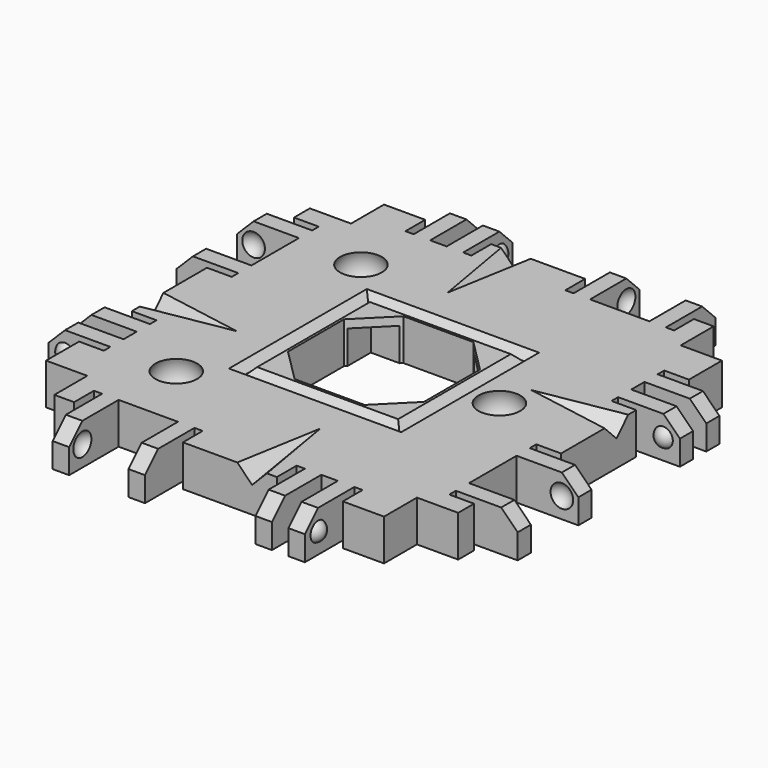
from build123d import *

# Parameters (mm, degrees)
BOX333_W               = 10
BOX333_H               = 15
BOX333_DEPTH           = 10
BOX333_ROLL_ANGLE      = 14.001942
BOX333_PITCH_ANGLE     = -44.136029
BOX333_PLACEMENT_ANGLE = -99.851076
BOX332_W               = 10
BOX332_H               = 15
BOX332_DEPTH           = 10
BOX332_ROLL_ANGLE      = 14.001942
BOX332_PITCH_ANGLE     = -44.136029
BOX332_PLACEMENT_ANGLE = 170.148924
BOX331_W               = 10
BOX331_H               = 15
BOX331_DEPTH           = 10
BOX331_ROLL_ANGLE      = 14.001942
BOX331_PITCH_ANGLE     = -44.136029
BOX331_PLACEMENT_ANGLE = 80.148924
BOX287_W               = 10
BOX287_H               = 15
BOX287_DEPTH           = 10
BOX287_ROLL_ANGLE      = 14.001942
BOX287_PITCH_ANGLE     = -44.136029
BOX287_PLACEMENT_ANGLE = -9.851076
CYLINDER028_R          = 1.7
CYLINDER028_DEPTH      = 10
CYLINDER029_R          = 1.7
CYLINDER029_DEPTH      = 10
CYLINDER027_R          = 1.7
CYLINDER027_DEPTH      = 10
BOX286_W               = 16
BOX286_H               = 16
BOX286_DEPTH           = 15
BOX283_W               = 16.5
BOX283_H               = 16.5
BOX283_DEPTH           = 15
CHAMFER016_SIZE        = 4
BOX285_W               = 17
BOX285_H               = 17
BOX285_DEPTH           = 14
BOX284_W               = 21
BOX284_H               = 21
BOX284_DEPTH           = 10
CHAMFER015_SIZE        = 0.95
BOX272_W               = 40
BOX272_H               = 40
BOX272_DEPTH           = 5
BOX294_W               = 13
BOX294_H               = 40
BOX294_DEPTH           = 10
BOX294_PITCH_ANGLE     = -45
BOX302_W               = 12
BOX302_H               = 44
BOX302_DEPTH           = 10
BOX301_W               = 20
BOX301_H               = 44
BOX301_DEPTH           = 10
BOX297_W               = 4
BOX297_H               = 1
BOX297_DEPTH           = 7
BOX299_W               = 4
BOX299_H               = 1
BOX299_DEPTH           = 7
BOX296_W               = 4
BOX296_H               = 2
BOX296_DEPTH           = 7
BOX298_W               = 4
BOX298_H               = 1
BOX298_DEPTH           = 7
BOX295_W               = 4
BOX295_H               = 1
BOX295_DEPTH           = 7
BOX300_W               = 4
BOX300_H               = 7.2
BOX300_DEPTH           = 7
BOX290_W               = 10
BOX290_H               = 2
BOX290_DEPTH           = 7
BOX291_W               = 10
BOX291_H               = 2
BOX291_DEPTH           = 7
BOX292_W               = 10
BOX292_H               = 2
BOX292_DEPTH           = 7
BOX293_W               = 10
BOX293_H               = 2
BOX293_DEPTH           = 7
BOX289_W               = 5
BOX289_H               = 40
BOX289_DEPTH           = 7
CUT121_PLACEMENT_ANGLE = 90
BOX316_W               = 13
BOX316_H               = 40
BOX316_DEPTH           = 10
BOX316_PITCH_ANGLE     = -45
BOX312_W               = 12
BOX312_H               = 44
BOX312_DEPTH           = 10
BOX305_W               = 20
BOX305_H               = 44
BOX305_DEPTH           = 10
BOX307_W               = 4
BOX307_H               = 1
BOX307_DEPTH           = 7
BOX309_W               = 4
BOX309_H               = 1
BOX309_DEPTH           = 7
BOX311_W               = 4
BOX311_H               = 2
BOX311_DEPTH           = 7
BOX310_W               = 4
BOX310_H               = 1
BOX310_DEPTH           = 7
BOX314_W               = 4
BOX314_H               = 1
BOX314_DEPTH           = 7
BOX306_W               = 4
BOX306_H               = 7.2
BOX306_DEPTH           = 7
BOX315_W               = 10
BOX315_H               = 2
BOX315_DEPTH           = 7
BOX304_W               = 10
BOX304_H               = 2
BOX304_DEPTH           = 7
BOX308_W               = 10
BOX308_H               = 2
BOX308_DEPTH           = 7
BOX313_W               = 10
BOX313_H               = 2
BOX313_DEPTH           = 7
BOX303_W               = 5
BOX303_H               = 40
BOX303_DEPTH           = 7
CUT126_PLACEMENT_ANGLE = 180
BOX318_W               = 13
BOX318_H               = 40
BOX318_DEPTH           = 10
BOX318_PITCH_ANGLE     = -45
BOX328_W               = 12
BOX328_H               = 44
BOX328_DEPTH           = 10
BOX319_W               = 20
BOX319_H               = 44
BOX319_DEPTH           = 10
BOX323_W               = 4
BOX323_H               = 1
BOX323_DEPTH           = 7
BOX329_W               = 4
BOX329_H               = 1
BOX329_DEPTH           = 7
BOX326_W               = 4
BOX326_H               = 2
BOX326_DEPTH           = 7
BOX325_W               = 4
BOX325_H               = 1
BOX325_DEPTH           = 7
BOX322_W               = 4
BOX322_H               = 1
BOX322_DEPTH           = 7
BOX324_W               = 4
BOX324_H               = 7.2
BOX324_DEPTH           = 7
BOX317_W               = 10
BOX317_H               = 2
BOX317_DEPTH           = 7
BOX320_W               = 10
BOX320_H               = 2
BOX320_DEPTH           = 7
BOX327_W               = 10
BOX327_H               = 2
BOX327_DEPTH           = 7
BOX330_W               = 10
BOX330_H               = 2
BOX330_DEPTH           = 7
BOX321_W               = 5
BOX321_H               = 40
BOX321_DEPTH           = 7
CUT131_PLACEMENT_ANGLE = -90
BOX277_W               = 13
BOX277_H               = 40
BOX277_DEPTH           = 10
BOX277_PITCH_ANGLE     = -45
BOX288_W               = 12
BOX288_H               = 44
BOX288_DEPTH           = 10
BOX275_W               = 20
BOX275_H               = 44
BOX275_DEPTH           = 10
BOX274_W               = 4
BOX274_H               = 1
BOX274_DEPTH           = 7
BOX273_W               = 4
BOX273_H               = 1
BOX273_DEPTH           = 7
BOX282_W               = 4
BOX282_H               = 2
BOX282_DEPTH           = 7
BOX270_W               = 4
BOX270_H               = 1
BOX270_DEPTH           = 7
BOX278_W               = 4
BOX278_H               = 1
BOX278_DEPTH           = 7
BOX269_W               = 4
BOX269_H               = 7.2
BOX269_DEPTH           = 7
BOX279_W               = 10
BOX279_H               = 2
BOX279_DEPTH           = 7
BOX281_W               = 10
BOX281_H               = 2
BOX281_DEPTH           = 7
BOX276_W               = 10
BOX276_H               = 2
BOX276_DEPTH           = 7
BOX280_W               = 10
BOX280_H               = 2
BOX280_DEPTH           = 7
BOX271_W               = 5
BOX271_H               = 40
BOX271_DEPTH           = 7


with BuildPart() as cube280:
    # Box333 → Box333 (new body)
    with BuildSketch(Plane.XY):
        with Locations((5, 7.5)):
            Rectangle(BOX333_W, BOX333_H)
    extrude(amount=BOX333_DEPTH)


with BuildPart() as cube280_1:
    # Box333 roll: moved
    add(cube280.part.rotate(Axis((0, 0, 0), (1, 0, 0)), BOX333_ROLL_ANGLE))


with BuildPart() as cube280_2:
    # Box333 pitch: moved
    add(cube280_1.part.rotate(Axis((0, 0, 0), (0, 1, 0)), BOX333_PITCH_ANGLE))


with BuildPart() as cube280_3:
    # Box333 placement: moved
    add(cube280_2.part.moved(Location((-6, 16, 1))).rotate(Axis((-6, 16, 1), (0, 0, 1)), BOX333_PLACEMENT_ANGLE))


with BuildPart() as cube279:
    # Box332 → Box332 (new body)
    with BuildSketch(Plane.XY):
        with Locations((5, 7.5)):
            Rectangle(BOX332_W, BOX332_H)
    extrude(amount=BOX332_DEPTH)


with BuildPart() as cube279_1:
    # Box332 roll: moved
    add(cube279.part.rotate(Axis((0, 0, 0), (1, 0, 0)), BOX332_ROLL_ANGLE))


with BuildPart() as cube279_2:
    # Box332 pitch: moved
    add(cube279_1.part.rotate(Axis((0, 0, 0), (0, 1, 0)), BOX332_PITCH_ANGLE))


with BuildPart() as cube279_3:
    # Box332 placement: moved
    add(cube279_2.part.moved(Location((16, 46, 1))).rotate(Axis((16, 46, 1), (0, 0, 1)), BOX332_PLACEMENT_ANGLE))


with BuildPart() as cube278:
    # Box331 → Box331 (new body)
    with BuildSketch(Plane.XY):
        with Locations((5, 7.5)):
            Rectangle(BOX331_W, BOX331_H)
    extrude(amount=BOX331_DEPTH)


with BuildPart() as cube278_1:
    # Box331 roll: moved
    add(cube278.part.rotate(Axis((0, 0, 0), (1, 0, 0)), BOX331_ROLL_ANGLE))


with BuildPart() as cube278_2:
    # Box331 pitch: moved
    add(cube278_1.part.rotate(Axis((0, 0, 0), (0, 1, 0)), BOX331_PITCH_ANGLE))


with BuildPart() as cube278_3:
    # Box331 placement: moved
    add(cube278_2.part.moved(Location((46, 24, 1))).rotate(Axis((46, 24, 1), (0, 0, 1)), BOX331_PLACEMENT_ANGLE))


with BuildPart() as glue_dents002:
    # Box287 → Box287 (new body)
    with BuildSketch(Plane.XY):
        with Locations((5, 7.5)):
            Rectangle(BOX287_W, BOX287_H)
    extrude(amount=BOX287_DEPTH)


with BuildPart() as glue_dents002_1:
    # Box287 roll: moved
    add(glue_dents002.part.rotate(Axis((0, 0, 0), (1, 0, 0)), BOX287_ROLL_ANGLE))


with BuildPart() as glue_dents002_2:
    # Box287 pitch: moved
    add(glue_dents002_1.part.rotate(Axis((0, 0, 0), (0, 1, 0)), BOX287_PITCH_ANGLE))


with BuildPart() as glue_dents002_3:
    # Box287 placement: moved
    add(glue_dents002_2.part.moved(Location((24, -6, 1))).rotate(Axis((24, -6, 1), (0, 0, 1)), BOX287_PLACEMENT_ANGLE))

    # Fusion126: union Cube280, Cube279, Cube278
    add(cube280_3.part)
    add(cube279_3.part)
    add(cube278_3.part)


with BuildPart() as cylinder028:
    # Cylinder028 → Cylinder028 (new body)
    with BuildSketch(Plane(origin=(34, 20, -5), x_dir=(1, 0, 0), z_dir=(0, 0, 1))):
        Circle(CYLINDER028_R)
    extrude(amount=CYLINDER028_DEPTH)


with BuildPart() as cylinder029:
    # Cylinder029 → Cylinder029 (new body)
    with BuildSketch(Plane(origin=(6, 34, -5), x_dir=(1, 0, 0), z_dir=(0, 0, 1))):
        Circle(CYLINDER029_R)
    extrude(amount=CYLINDER029_DEPTH)


with BuildPart() as screw_holes_to_remove_ball_mags001:
    # Cylinder027 → Cylinder027 (new body)
    with BuildSketch(Plane(origin=(6, 6, -5), x_dir=(1, 0, 0), z_dir=(0, 0, 1))):
        Circle(CYLINDER027_R)
    extrude(amount=CYLINDER027_DEPTH)

    # Fusion104: union Cylinder028, Cylinder029
    add(cylinder028.part)
    add(cylinder029.part)


with BuildPart() as cube243:
    # Box286 → Box286 (new body)
    with BuildSketch(Plane(origin=(12, 12, -13), x_dir=(1, 0, 0), z_dir=(0, 0, 1))):
        with Locations((8, 8)):
            Rectangle(BOX286_W, BOX286_H)
    extrude(amount=BOX286_DEPTH)


with BuildPart() as chamfer016:
    # Box283 → Box283 (new body)
    with BuildSketch(Plane(origin=(11.75, 11.75, -3), x_dir=(1, 0, 0), z_dir=(0, 0, 1))):
        with Locations((8.25, 8.25)):
            Rectangle(BOX283_W, BOX283_H)
    extrude(amount=BOX283_DEPTH)

    # Chamfer016
    chamfer016_edges = [chamfer016.edges().sort_by_distance(p)[0] for p in [
        (11.75, 11.75, 4.5),
        (11.75, 28.25, 4.5),
        (28.25, 11.75, 4.5),
        (28.25, 28.25, 4.5),
    ]]
    chamfer(chamfer016_edges, length=CHAMFER016_SIZE)


with BuildPart() as cube242:
    # Box285 → Box285 (new body)
    with BuildSketch(Plane(origin=(11.5, 11.5, 0), x_dir=(1, 0, 0), z_dir=(0, 0, 1))):
        with Locations((8.5, 8.5)):
            Rectangle(BOX285_W, BOX285_H)
    extrude(amount=BOX285_DEPTH)


with BuildPart() as chamfer015:
    # Box284 → Box284 (new body)
    with BuildSketch(Plane(origin=(9.5, 9.5, 2.1), x_dir=(1, 0, 0), z_dir=(0, 0, 1))):
        with Locations((10.5, 10.5)):
            Rectangle(BOX284_W, BOX284_H)
    extrude(amount=BOX284_DEPTH)

    # Cut107: cut Cube242
    add(cube242.part, mode=Mode.SUBTRACT)

    # Chamfer015
    chamfer015_edges = [chamfer015.edges().sort_by_distance(p)[0] for p in [
        (9.5, 20, 2.1),
        (20, 9.5, 2.1),
        (20, 30.5, 2.1),
        (30.5, 20, 2.1),
        (20, 11.5, 2.1),
        (28.5, 20, 2.1),
        (20, 28.5, 2.1),
        (11.5, 20, 2.1),
    ]]
    chamfer(chamfer015_edges, length=CHAMFER015_SIZE)


with BuildPart() as sphere086:
    # Sphere086 → Sphere086 (revolve)
    with BuildSketch(Plane(origin=(34, 20, 1.7), x_dir=(1, 0, 0), z_dir=(0, -1, 0))):
        with BuildLine():
            ThreePointArc((0, -2.85), (2.85, 0), (0, 2.85))
            Line((0, 2.85), (0, -2.85))
        make_face()
    revolve(axis=Axis((34, 20, 1.7), (0, 0, 1)))


with BuildPart() as sphere084:
    # Sphere084 → Sphere084 (revolve)
    with BuildSketch(Plane(origin=(6, 34, 1.7), x_dir=(1, 0, 0), z_dir=(0, -1, 0))):
        with BuildLine():
            ThreePointArc((0, -2.85), (2.85, 0), (0, 2.85))
            Line((0, 2.85), (0, -2.85))
        make_face()
    revolve(axis=Axis((6, 34, 1.7), (0, 0, 1)))


with BuildPart() as fusion102:
    # Sphere089 → Sphere089 (revolve)
    with BuildSketch(Plane(origin=(6, 6, 1.7), x_dir=(1, 0, 0), z_dir=(0, -1, 0))):
        with BuildLine():
            ThreePointArc((0, -2.85), (2.85, 0), (0, 2.85))
            Line((0, 2.85), (0, -2.85))
        make_face()
    revolve(axis=Axis((6, 6, 1.7), (0, 0, 1)))

    # Fusion102: union Sphere086, Sphere084
    add(sphere086.part)
    add(sphere084.part)


with BuildPart() as cut132:
    # Box272 → Box272 (new body)
    with BuildSketch(Plane.XY.offset(-2)):
        with Locations((20, 20)):
            Rectangle(BOX272_W, BOX272_H)
    extrude(amount=BOX272_DEPTH)

    # Cut108: cut Fusion102
    add(fusion102.part, mode=Mode.SUBTRACT)

    # Cut109: cut Chamfer015
    add(chamfer015.part, mode=Mode.SUBTRACT)

    # Cut110: cut Chamfer016
    add(chamfer016.part, mode=Mode.SUBTRACT)

    # Cut111: cut Cube243
    add(cube243.part, mode=Mode.SUBTRACT)

    # Cut132: cut Screw Holes to remove ball mags001
    add(screw_holes_to_remove_ball_mags001.part, mode=Mode.SUBTRACT)


with BuildPart() as chamfer_cube010:
    # Box294 → Box294 (new body)
    with BuildSketch(Plane.XY):
        with Locations((6.5, 20)):
            Rectangle(BOX294_W, BOX294_H)
    extrude(amount=BOX294_DEPTH)


with BuildPart() as chamfer_cube010_1:
    # Box294 pitch: moved
    add(chamfer_cube010.part.rotate(Axis((0, 0, 0), (0, 1, 0)), BOX294_PITCH_ANGLE))


with BuildPart() as chamfer_cube010_2:
    # Box294 placement: moved
    add(chamfer_cube010_1.part.moved(Location((-11.69, 0, -1.19))))


with BuildPart() as re_level_edge_clip_block021:
    # Box302 → Box302 (new body)
    with BuildSketch(Plane(origin=(-21.5, -2, -7), x_dir=(1, 0, 0), z_dir=(0, 0, 1))):
        with Locations((6, 22)):
            Rectangle(BOX302_W, BOX302_H)
    extrude(amount=BOX302_DEPTH)


with BuildPart() as re_level_edge_clip_block020:
    # Box301 → Box301 (new body)
    with BuildSketch(Plane(origin=(-19, -2, 3), x_dir=(1, 0, 0), z_dir=(0, 0, 1))):
        with Locations((10, 22)):
            Rectangle(BOX301_W, BOX301_H)
    extrude(amount=BOX301_DEPTH)


with BuildPart() as cube252:
    # Box297 → Box297 (new body)
    with BuildSketch(Plane(origin=(-6, 12, -2), x_dir=(1, 0, 0), z_dir=(0, 0, 1))):
        with Locations((2, 0.5)):
            Rectangle(BOX297_W, BOX297_H)
    extrude(amount=BOX297_DEPTH)


with BuildPart() as cube254:
    # Box299 → Box299 (new body)
    with BuildSketch(Plane(origin=(-6, 36.6, -2), x_dir=(1, 0, 0), z_dir=(0, 0, 1))):
        with Locations((2, 0.5)):
            Rectangle(BOX299_W, BOX299_H)
    extrude(amount=BOX299_DEPTH)


with BuildPart() as cube251:
    # Box296 → Box296 (new body)
    with BuildSketch(Plane(origin=(-6, 8, -2), x_dir=(1, 0, 0), z_dir=(0, 0, 1))):
        with Locations((2, 1)):
            Rectangle(BOX296_W, BOX296_H)
    extrude(amount=BOX296_DEPTH)


with BuildPart() as cube253:
    # Box298 → Box298 (new body)
    with BuildSketch(Plane(origin=(-6, 24.4, -2), x_dir=(1, 0, 0), z_dir=(0, 0, 1))):
        with Locations((2, 0.5)):
            Rectangle(BOX298_W, BOX298_H)
    extrude(amount=BOX298_DEPTH)


with BuildPart() as cube250:
    # Box295 → Box295 (new body)
    with BuildSketch(Plane(origin=(-6, 5, -2), x_dir=(1, 0, 0), z_dir=(0, 0, 1))):
        with Locations((2, 0.5)):
            Rectangle(BOX295_W, BOX295_H)
    extrude(amount=BOX295_DEPTH)


with BuildPart() as extra_holes_for_clips010:
    # Box300 → Box300 (new body)
    with BuildSketch(Plane(origin=(-6, 27.4, -2), x_dir=(1, 0, 0), z_dir=(0, 0, 1))):
        with Locations((2, 3.6)):
            Rectangle(BOX300_W, BOX300_H)
    extrude(amount=BOX300_DEPTH)

    # Fusion109: union Cube252, Cube254, Cube251, Cube253, Cube250
    add(cube252.part)
    add(cube254.part)
    add(cube251.part)
    add(cube253.part)
    add(cube250.part)


with BuildPart() as sphere093:
    # Sphere093 → Sphere093 (revolve)
    with BuildSketch(Plane(origin=(-7.5, 34, 0.5), x_dir=(1, 0, 0), z_dir=(0, -1, 0))):
        with BuildLine():
            ThreePointArc((0, -1.5), (1.5, 0), (0, 1.5))
            Line((0, 1.5), (0, -1.5))
        make_face()
    revolve(axis=Axis((-7.5, 34, 0.5), (0, 0, 1)))


with BuildPart() as holes010:
    # Sphere092 → Sphere092 (revolve)
    with BuildSketch(Plane(origin=(-7.5, 28, 0.5), x_dir=(1, 0, 0), z_dir=(0, -1, 0))):
        with BuildLine():
            ThreePointArc((0, -1.5), (1.5, 0), (0, 1.5))
            Line((0, 1.5), (0, -1.5))
        make_face()
    revolve(axis=Axis((-7.5, 28, 0.5), (0, 0, 1)))

    # Fusion111: union Sphere093
    add(sphere093.part)


with BuildPart() as cube246:
    # Box290 → Box290 (new body)
    with BuildSketch(Plane(origin=(-15, 6, -2), x_dir=(1, 0, 0), z_dir=(0, 0, 1))):
        with Locations((5, 1)):
            Rectangle(BOX290_W, BOX290_H)
    extrude(amount=BOX290_DEPTH)


with BuildPart() as cube247:
    # Box291 → Box291 (new body)
    with BuildSketch(Plane(origin=(-15, 10, -2), x_dir=(1, 0, 0), z_dir=(0, 0, 1))):
        with Locations((5, 1)):
            Rectangle(BOX291_W, BOX291_H)
    extrude(amount=BOX291_DEPTH)


with BuildPart() as cube248:
    # Box292 → Box292 (new body)
    with BuildSketch(Plane(origin=(-15, 25.4, -2), x_dir=(1, 0, 0), z_dir=(0, 0, 1))):
        with Locations((5, 1)):
            Rectangle(BOX292_W, BOX292_H)
    extrude(amount=BOX292_DEPTH)


with BuildPart() as cube249:
    # Box293 → Box293 (new body)
    with BuildSketch(Plane(origin=(-15, 34.6, -2), x_dir=(1, 0, 0), z_dir=(0, 0, 1))):
        with Locations((5, 1)):
            Rectangle(BOX293_W, BOX293_H)
    extrude(amount=BOX293_DEPTH)


with BuildPart() as fusion112:
    # Box289 → Box289 (new body)
    with BuildSketch(Plane(origin=(-5, 0, -2), x_dir=(1, 0, 0), z_dir=(0, 0, 1))):
        with Locations((2.5, 20)):
            Rectangle(BOX289_W, BOX289_H)
    extrude(amount=BOX289_DEPTH)

    # Fusion112: union Cube246, Cube247, Cube248, Cube249
    add(cube246.part)
    add(cube247.part)
    add(cube248.part)
    add(cube249.part)


with BuildPart() as sphere091:
    # Sphere091 → Sphere091 (revolve)
    with BuildSketch(Plane(origin=(-7.5, 11.5, 0.5), x_dir=(1, 0, 0), z_dir=(0, -1, 0))):
        with BuildLine():
            ThreePointArc((0, -1.25), (1.25, 0), (0, 1.25))
            Line((0, 1.25), (0, -1.25))
        make_face()
    revolve(axis=Axis((-7.5, 11.5, 0.5), (0, 0, 1)))


with BuildPart() as edge_clips007:
    # Sphere090 → Sphere090 (revolve)
    with BuildSketch(Plane(origin=(-7.5, 6.5, 0.5), x_dir=(1, 0, 0), z_dir=(0, -1, 0))):
        with BuildLine():
            ThreePointArc((0, -1.25), (1.25, 0), (0, 1.25))
            Line((0, 1.25), (0, -1.25))
        make_face()
    revolve(axis=Axis((-7.5, 6.5, 0.5), (0, 0, 1)))

    # Fusion110: union Sphere091
    add(sphere091.part)

    # Fusion113: union Fusion112
    add(fusion112.part)

    # Cut117: cut Holes010
    add(holes010.part, mode=Mode.SUBTRACT)

    # Cut118: cut Extra Holes for Clips010
    add(extra_holes_for_clips010.part, mode=Mode.SUBTRACT)

    # Cut119: cut Re-level Edge Clip Block020
    add(re_level_edge_clip_block020.part, mode=Mode.SUBTRACT)

    # Cut120: cut Re-level Edge Clip Block021
    add(re_level_edge_clip_block021.part, mode=Mode.SUBTRACT)

    # Cut121: cut Chamfer Cube010
    add(chamfer_cube010_2.part, mode=Mode.SUBTRACT)


with BuildPart() as edge_clips007_1:
    # Cut121 placement: moved
    add(edge_clips007.part.moved(Location((40, 0, 0))).rotate(Axis((40, 0, 0), (0, 0, 1)), CUT121_PLACEMENT_ANGLE))


with BuildPart() as chamfer_cube011:
    # Box316 → Box316 (new body)
    with BuildSketch(Plane.XY):
        with Locations((6.5, 20)):
            Rectangle(BOX316_W, BOX316_H)
    extrude(amount=BOX316_DEPTH)


with BuildPart() as chamfer_cube011_1:
    # Box316 pitch: moved
    add(chamfer_cube011.part.rotate(Axis((0, 0, 0), (0, 1, 0)), BOX316_PITCH_ANGLE))


with BuildPart() as chamfer_cube011_2:
    # Box316 placement: moved
    add(chamfer_cube011_1.part.moved(Location((-11.69, 0, -1.19))))


with BuildPart() as re_level_edge_clip_block023:
    # Box312 → Box312 (new body)
    with BuildSketch(Plane(origin=(-21.5, -2, -7), x_dir=(1, 0, 0), z_dir=(0, 0, 1))):
        with Locations((6, 22)):
            Rectangle(BOX312_W, BOX312_H)
    extrude(amount=BOX312_DEPTH)


with BuildPart() as re_level_edge_clip_block022:
    # Box305 → Box305 (new body)
    with BuildSketch(Plane(origin=(-19, -2, 3), x_dir=(1, 0, 0), z_dir=(0, 0, 1))):
        with Locations((10, 22)):
            Rectangle(BOX305_W, BOX305_H)
    extrude(amount=BOX305_DEPTH)


with BuildPart() as cube259:
    # Box307 → Box307 (new body)
    with BuildSketch(Plane(origin=(-6, 12, -2), x_dir=(1, 0, 0), z_dir=(0, 0, 1))):
        with Locations((2, 0.5)):
            Rectangle(BOX307_W, BOX307_H)
    extrude(amount=BOX307_DEPTH)


with BuildPart() as cube261:
    # Box309 → Box309 (new body)
    with BuildSketch(Plane(origin=(-6, 36.6, -2), x_dir=(1, 0, 0), z_dir=(0, 0, 1))):
        with Locations((2, 0.5)):
            Rectangle(BOX309_W, BOX309_H)
    extrude(amount=BOX309_DEPTH)


with BuildPart() as cube263:
    # Box311 → Box311 (new body)
    with BuildSketch(Plane(origin=(-6, 8, -2), x_dir=(1, 0, 0), z_dir=(0, 0, 1))):
        with Locations((2, 1)):
            Rectangle(BOX311_W, BOX311_H)
    extrude(amount=BOX311_DEPTH)


with BuildPart() as cube262:
    # Box310 → Box310 (new body)
    with BuildSketch(Plane(origin=(-6, 24.4, -2), x_dir=(1, 0, 0), z_dir=(0, 0, 1))):
        with Locations((2, 0.5)):
            Rectangle(BOX310_W, BOX310_H)
    extrude(amount=BOX310_DEPTH)


with BuildPart() as cube265:
    # Box314 → Box314 (new body)
    with BuildSketch(Plane(origin=(-6, 5, -2), x_dir=(1, 0, 0), z_dir=(0, 0, 1))):
        with Locations((2, 0.5)):
            Rectangle(BOX314_W, BOX314_H)
    extrude(amount=BOX314_DEPTH)


with BuildPart() as extra_holes_for_clips011:
    # Box306 → Box306 (new body)
    with BuildSketch(Plane(origin=(-6, 27.4, -2), x_dir=(1, 0, 0), z_dir=(0, 0, 1))):
        with Locations((2, 3.6)):
            Rectangle(BOX306_W, BOX306_H)
    extrude(amount=BOX306_DEPTH)

    # Fusion115: union Cube259, Cube261, Cube263, Cube262, Cube265
    add(cube259.part)
    add(cube261.part)
    add(cube263.part)
    add(cube262.part)
    add(cube265.part)


with BuildPart() as sphere095:
    # Sphere095 → Sphere095 (revolve)
    with BuildSketch(Plane(origin=(-7.5, 34, 0.5), x_dir=(1, 0, 0), z_dir=(0, -1, 0))):
        with BuildLine():
            ThreePointArc((0, -1.5), (1.5, 0), (0, 1.5))
            Line((0, 1.5), (0, -1.5))
        make_face()
    revolve(axis=Axis((-7.5, 34, 0.5), (0, 0, 1)))


with BuildPart() as holes011:
    # Sphere097 → Sphere097 (revolve)
    with BuildSketch(Plane(origin=(-7.5, 28, 0.5), x_dir=(1, 0, 0), z_dir=(0, -1, 0))):
        with BuildLine():
            ThreePointArc((0, -1.5), (1.5, 0), (0, 1.5))
            Line((0, 1.5), (0, -1.5))
        make_face()
    revolve(axis=Axis((-7.5, 28, 0.5), (0, 0, 1)))

    # Fusion114: union Sphere095
    add(sphere095.part)


with BuildPart() as cube266:
    # Box315 → Box315 (new body)
    with BuildSketch(Plane(origin=(-15, 6, -2), x_dir=(1, 0, 0), z_dir=(0, 0, 1))):
        with Locations((5, 1)):
            Rectangle(BOX315_W, BOX315_H)
    extrude(amount=BOX315_DEPTH)


with BuildPart() as cube257:
    # Box304 → Box304 (new body)
    with BuildSketch(Plane(origin=(-15, 10, -2), x_dir=(1, 0, 0), z_dir=(0, 0, 1))):
        with Locations((5, 1)):
            Rectangle(BOX304_W, BOX304_H)
    extrude(amount=BOX304_DEPTH)


with BuildPart() as cube260:
    # Box308 → Box308 (new body)
    with BuildSketch(Plane(origin=(-15, 25.4, -2), x_dir=(1, 0, 0), z_dir=(0, 0, 1))):
        with Locations((5, 1)):
            Rectangle(BOX308_W, BOX308_H)
    extrude(amount=BOX308_DEPTH)


with BuildPart() as cube264:
    # Box313 → Box313 (new body)
    with BuildSketch(Plane(origin=(-15, 34.6, -2), x_dir=(1, 0, 0), z_dir=(0, 0, 1))):
        with Locations((5, 1)):
            Rectangle(BOX313_W, BOX313_H)
    extrude(amount=BOX313_DEPTH)


with BuildPart() as fusion117:
    # Box303 → Box303 (new body)
    with BuildSketch(Plane(origin=(-5, 0, -2), x_dir=(1, 0, 0), z_dir=(0, 0, 1))):
        with Locations((2.5, 20)):
            Rectangle(BOX303_W, BOX303_H)
    extrude(amount=BOX303_DEPTH)

    # Fusion117: union Cube266, Cube257, Cube260, Cube264
    add(cube266.part)
    add(cube257.part)
    add(cube260.part)
    add(cube264.part)


with BuildPart() as sphere096:
    # Sphere096 → Sphere096 (revolve)
    with BuildSketch(Plane(origin=(-7.5, 11.5, 0.5), x_dir=(1, 0, 0), z_dir=(0, -1, 0))):
        with BuildLine():
            ThreePointArc((0, -1.25), (1.25, 0), (0, 1.25))
            Line((0, 1.25), (0, -1.25))
        make_face()
    revolve(axis=Axis((-7.5, 11.5, 0.5), (0, 0, 1)))


with BuildPart() as edge_clips008:
    # Sphere094 → Sphere094 (revolve)
    with BuildSketch(Plane(origin=(-7.5, 6.5, 0.5), x_dir=(1, 0, 0), z_dir=(0, -1, 0))):
        with BuildLine():
            ThreePointArc((0, -1.25), (1.25, 0), (0, 1.25))
            Line((0, 1.25), (0, -1.25))
        make_face()
    revolve(axis=Axis((-7.5, 6.5, 0.5), (0, 0, 1)))

    # Fusion118: union Sphere096
    add(sphere096.part)

    # Fusion116: union Fusion117
    add(fusion117.part)

    # Cut125: cut Holes011
    add(holes011.part, mode=Mode.SUBTRACT)

    # Cut122: cut Extra Holes for Clips011
    add(extra_holes_for_clips011.part, mode=Mode.SUBTRACT)

    # Cut123: cut Re-level Edge Clip Block022
    add(re_level_edge_clip_block022.part, mode=Mode.SUBTRACT)

    # Cut124: cut Re-level Edge Clip Block023
    add(re_level_edge_clip_block023.part, mode=Mode.SUBTRACT)

    # Cut126: cut Chamfer Cube011
    add(chamfer_cube011_2.part, mode=Mode.SUBTRACT)


with BuildPart() as edge_clips008_1:
    # Cut126 placement: moved
    add(edge_clips008.part.moved(Location((40, 40, 0))).rotate(Axis((40, 40, 0), (0, 0, 1)), CUT126_PLACEMENT_ANGLE))


with BuildPart() as chamfer_cube012:
    # Box318 → Box318 (new body)
    with BuildSketch(Plane.XY):
        with Locations((6.5, 20)):
            Rectangle(BOX318_W, BOX318_H)
    extrude(amount=BOX318_DEPTH)


with BuildPart() as chamfer_cube012_1:
    # Box318 pitch: moved
    add(chamfer_cube012.part.rotate(Axis((0, 0, 0), (0, 1, 0)), BOX318_PITCH_ANGLE))


with BuildPart() as chamfer_cube012_2:
    # Box318 placement: moved
    add(chamfer_cube012_1.part.moved(Location((-11.69, 0, -1.19))))


with BuildPart() as re_level_edge_clip_block025:
    # Box328 → Box328 (new body)
    with BuildSketch(Plane(origin=(-21.5, -2, -7), x_dir=(1, 0, 0), z_dir=(0, 0, 1))):
        with Locations((6, 22)):
            Rectangle(BOX328_W, BOX328_H)
    extrude(amount=BOX328_DEPTH)


with BuildPart() as re_level_edge_clip_block024:
    # Box319 → Box319 (new body)
    with BuildSketch(Plane(origin=(-19, -2, 3), x_dir=(1, 0, 0), z_dir=(0, 0, 1))):
        with Locations((10, 22)):
            Rectangle(BOX319_W, BOX319_H)
    extrude(amount=BOX319_DEPTH)


with BuildPart() as cube271:
    # Box323 → Box323 (new body)
    with BuildSketch(Plane(origin=(-6, 12, -2), x_dir=(1, 0, 0), z_dir=(0, 0, 1))):
        with Locations((2, 0.5)):
            Rectangle(BOX323_W, BOX323_H)
    extrude(amount=BOX323_DEPTH)


with BuildPart() as cube276:
    # Box329 → Box329 (new body)
    with BuildSketch(Plane(origin=(-6, 36.6, -2), x_dir=(1, 0, 0), z_dir=(0, 0, 1))):
        with Locations((2, 0.5)):
            Rectangle(BOX329_W, BOX329_H)
    extrude(amount=BOX329_DEPTH)


with BuildPart() as cube274:
    # Box326 → Box326 (new body)
    with BuildSketch(Plane(origin=(-6, 8, -2), x_dir=(1, 0, 0), z_dir=(0, 0, 1))):
        with Locations((2, 1)):
            Rectangle(BOX326_W, BOX326_H)
    extrude(amount=BOX326_DEPTH)


with BuildPart() as cube273:
    # Box325 → Box325 (new body)
    with BuildSketch(Plane(origin=(-6, 24.4, -2), x_dir=(1, 0, 0), z_dir=(0, 0, 1))):
        with Locations((2, 0.5)):
            Rectangle(BOX325_W, BOX325_H)
    extrude(amount=BOX325_DEPTH)


with BuildPart() as cube270:
    # Box322 → Box322 (new body)
    with BuildSketch(Plane(origin=(-6, 5, -2), x_dir=(1, 0, 0), z_dir=(0, 0, 1))):
        with Locations((2, 0.5)):
            Rectangle(BOX322_W, BOX322_H)
    extrude(amount=BOX322_DEPTH)


with BuildPart() as extra_holes_for_clips012:
    # Box324 → Box324 (new body)
    with BuildSketch(Plane(origin=(-6, 27.4, -2), x_dir=(1, 0, 0), z_dir=(0, 0, 1))):
        with Locations((2, 3.6)):
            Rectangle(BOX324_W, BOX324_H)
    extrude(amount=BOX324_DEPTH)

    # Fusion122: union Cube271, Cube276, Cube274, Cube273, Cube270
    add(cube271.part)
    add(cube276.part)
    add(cube274.part)
    add(cube273.part)
    add(cube270.part)


with BuildPart() as sphere101:
    # Sphere101 → Sphere101 (revolve)
    with BuildSketch(Plane(origin=(-7.5, 34, 0.5), x_dir=(1, 0, 0), z_dir=(0, -1, 0))):
        with BuildLine():
            ThreePointArc((0, -1.5), (1.5, 0), (0, 1.5))
            Line((0, 1.5), (0, -1.5))
        make_face()
    revolve(axis=Axis((-7.5, 34, 0.5), (0, 0, 1)))


with BuildPart() as holes012:
    # Sphere098 → Sphere098 (revolve)
    with BuildSketch(Plane(origin=(-7.5, 28, 0.5), x_dir=(1, 0, 0), z_dir=(0, -1, 0))):
        with BuildLine():
            ThreePointArc((0, -1.5), (1.5, 0), (0, 1.5))
            Line((0, 1.5), (0, -1.5))
        make_face()
    revolve(axis=Axis((-7.5, 28, 0.5), (0, 0, 1)))

    # Fusion119: union Sphere101
    add(sphere101.part)


with BuildPart() as cube267:
    # Box317 → Box317 (new body)
    with BuildSketch(Plane(origin=(-15, 6, -2), x_dir=(1, 0, 0), z_dir=(0, 0, 1))):
        with Locations((5, 1)):
            Rectangle(BOX317_W, BOX317_H)
    extrude(amount=BOX317_DEPTH)


with BuildPart() as cube268:
    # Box320 → Box320 (new body)
    with BuildSketch(Plane(origin=(-15, 10, -2), x_dir=(1, 0, 0), z_dir=(0, 0, 1))):
        with Locations((5, 1)):
            Rectangle(BOX320_W, BOX320_H)
    extrude(amount=BOX320_DEPTH)


with BuildPart() as cube275:
    # Box327 → Box327 (new body)
    with BuildSketch(Plane(origin=(-15, 25.4, -2), x_dir=(1, 0, 0), z_dir=(0, 0, 1))):
        with Locations((5, 1)):
            Rectangle(BOX327_W, BOX327_H)
    extrude(amount=BOX327_DEPTH)


with BuildPart() as cube277:
    # Box330 → Box330 (new body)
    with BuildSketch(Plane(origin=(-15, 34.6, -2), x_dir=(1, 0, 0), z_dir=(0, 0, 1))):
        with Locations((5, 1)):
            Rectangle(BOX330_W, BOX330_H)
    extrude(amount=BOX330_DEPTH)


with BuildPart() as fusion120:
    # Box321 → Box321 (new body)
    with BuildSketch(Plane(origin=(-5, 0, -2), x_dir=(1, 0, 0), z_dir=(0, 0, 1))):
        with Locations((2.5, 20)):
            Rectangle(BOX321_W, BOX321_H)
    extrude(amount=BOX321_DEPTH)

    # Fusion120: union Cube267, Cube268, Cube275, Cube277
    add(cube267.part)
    add(cube268.part)
    add(cube275.part)
    add(cube277.part)


with BuildPart() as sphere099:
    # Sphere099 → Sphere099 (revolve)
    with BuildSketch(Plane(origin=(-7.5, 11.5, 0.5), x_dir=(1, 0, 0), z_dir=(0, -1, 0))):
        with BuildLine():
            ThreePointArc((0, -1.25), (1.25, 0), (0, 1.25))
            Line((0, 1.25), (0, -1.25))
        make_face()
    revolve(axis=Axis((-7.5, 11.5, 0.5), (0, 0, 1)))


with BuildPart() as edge_clips009:
    # Sphere100 → Sphere100 (revolve)
    with BuildSketch(Plane(origin=(-7.5, 6.5, 0.5), x_dir=(1, 0, 0), z_dir=(0, -1, 0))):
        with BuildLine():
            ThreePointArc((0, -1.25), (1.25, 0), (0, 1.25))
            Line((0, 1.25), (0, -1.25))
        make_face()
    revolve(axis=Axis((-7.5, 6.5, 0.5), (0, 0, 1)))

    # Fusion121: union Sphere099
    add(sphere099.part)

    # Fusion123: union Fusion120
    add(fusion120.part)

    # Cut127: cut Holes012
    add(holes012.part, mode=Mode.SUBTRACT)

    # Cut128: cut Extra Holes for Clips012
    add(extra_holes_for_clips012.part, mode=Mode.SUBTRACT)

    # Cut130: cut Re-level Edge Clip Block024
    add(re_level_edge_clip_block024.part, mode=Mode.SUBTRACT)

    # Cut129: cut Re-level Edge Clip Block025
    add(re_level_edge_clip_block025.part, mode=Mode.SUBTRACT)

    # Cut131: cut Chamfer Cube012
    add(chamfer_cube012_2.part, mode=Mode.SUBTRACT)


with BuildPart() as edge_clips009_1:
    # Cut131 placement: moved
    add(edge_clips009.part.moved(Location((0, 40, 0))).rotate(Axis((0, 40, 0), (0, 0, 1)), CUT131_PLACEMENT_ANGLE))


with BuildPart() as chamfer_cube009:
    # Box277 → Box277 (new body)
    with BuildSketch(Plane.XY):
        with Locations((6.5, 20)):
            Rectangle(BOX277_W, BOX277_H)
    extrude(amount=BOX277_DEPTH)


with BuildPart() as chamfer_cube009_1:
    # Box277 pitch: moved
    add(chamfer_cube009.part.rotate(Axis((0, 0, 0), (0, 1, 0)), BOX277_PITCH_ANGLE))


with BuildPart() as chamfer_cube009_2:
    # Box277 placement: moved
    add(chamfer_cube009_1.part.moved(Location((-11.69, 0, -1.19))))


with BuildPart() as re_level_edge_clip_block019:
    # Box288 → Box288 (new body)
    with BuildSketch(Plane(origin=(-21.5, -2, -7), x_dir=(1, 0, 0), z_dir=(0, 0, 1))):
        with Locations((6, 22)):
            Rectangle(BOX288_W, BOX288_H)
    extrude(amount=BOX288_DEPTH)


with BuildPart() as re_level_edge_clip_block018:
    # Box275 → Box275 (new body)
    with BuildSketch(Plane(origin=(-19, -2, 3), x_dir=(1, 0, 0), z_dir=(0, 0, 1))):
        with Locations((10, 22)):
            Rectangle(BOX275_W, BOX275_H)
    extrude(amount=BOX275_DEPTH)


with BuildPart() as cube233:
    # Box274 → Box274 (new body)
    with BuildSketch(Plane(origin=(-6, 12, -2), x_dir=(1, 0, 0), z_dir=(0, 0, 1))):
        with Locations((2, 0.5)):
            Rectangle(BOX274_W, BOX274_H)
    extrude(amount=BOX274_DEPTH)


with BuildPart() as cube232:
    # Box273 → Box273 (new body)
    with BuildSketch(Plane(origin=(-6, 36.6, -2), x_dir=(1, 0, 0), z_dir=(0, 0, 1))):
        with Locations((2, 0.5)):
            Rectangle(BOX273_W, BOX273_H)
    extrude(amount=BOX273_DEPTH)


with BuildPart() as cube239:
    # Box282 → Box282 (new body)
    with BuildSketch(Plane(origin=(-6, 8, -2), x_dir=(1, 0, 0), z_dir=(0, 0, 1))):
        with Locations((2, 1)):
            Rectangle(BOX282_W, BOX282_H)
    extrude(amount=BOX282_DEPTH)


with BuildPart() as cube229:
    # Box270 → Box270 (new body)
    with BuildSketch(Plane(origin=(-6, 24.4, -2), x_dir=(1, 0, 0), z_dir=(0, 0, 1))):
        with Locations((2, 0.5)):
            Rectangle(BOX270_W, BOX270_H)
    extrude(amount=BOX270_DEPTH)


with BuildPart() as cube235:
    # Box278 → Box278 (new body)
    with BuildSketch(Plane(origin=(-6, 5, -2), x_dir=(1, 0, 0), z_dir=(0, 0, 1))):
        with Locations((2, 0.5)):
            Rectangle(BOX278_W, BOX278_H)
    extrude(amount=BOX278_DEPTH)


with BuildPart() as extra_holes_for_clips009:
    # Box269 → Box269 (new body)
    with BuildSketch(Plane(origin=(-6, 27.4, -2), x_dir=(1, 0, 0), z_dir=(0, 0, 1))):
        with Locations((2, 3.6)):
            Rectangle(BOX269_W, BOX269_H)
    extrude(amount=BOX269_DEPTH)

    # Fusion103: union Cube233, Cube232, Cube239, Cube229, Cube235
    add(cube233.part)
    add(cube232.part)
    add(cube239.part)
    add(cube229.part)
    add(cube235.part)


with BuildPart() as sphere083:
    # Sphere083 → Sphere083 (revolve)
    with BuildSketch(Plane(origin=(-7.5, 34, 0.5), x_dir=(1, 0, 0), z_dir=(0, -1, 0))):
        with BuildLine():
            ThreePointArc((0, -1.5), (1.5, 0), (0, 1.5))
            Line((0, 1.5), (0, -1.5))
        make_face()
    revolve(axis=Axis((-7.5, 34, 0.5), (0, 0, 1)))


with BuildPart() as holes009:
    # Sphere087 → Sphere087 (revolve)
    with BuildSketch(Plane(origin=(-7.5, 28, 0.5), x_dir=(1, 0, 0), z_dir=(0, -1, 0))):
        with BuildLine():
            ThreePointArc((0, -1.5), (1.5, 0), (0, 1.5))
            Line((0, 1.5), (0, -1.5))
        make_face()
    revolve(axis=Axis((-7.5, 28, 0.5), (0, 0, 1)))

    # Fusion106: union Sphere083
    add(sphere083.part)


with BuildPart() as cube236:
    # Box279 → Box279 (new body)
    with BuildSketch(Plane(origin=(-15, 6, -2), x_dir=(1, 0, 0), z_dir=(0, 0, 1))):
        with Locations((5, 1)):
            Rectangle(BOX279_W, BOX279_H)
    extrude(amount=BOX279_DEPTH)


with BuildPart() as cube238:
    # Box281 → Box281 (new body)
    with BuildSketch(Plane(origin=(-15, 10, -2), x_dir=(1, 0, 0), z_dir=(0, 0, 1))):
        with Locations((5, 1)):
            Rectangle(BOX281_W, BOX281_H)
    extrude(amount=BOX281_DEPTH)


with BuildPart() as cube234:
    # Box276 → Box276 (new body)
    with BuildSketch(Plane(origin=(-15, 25.4, -2), x_dir=(1, 0, 0), z_dir=(0, 0, 1))):
        with Locations((5, 1)):
            Rectangle(BOX276_W, BOX276_H)
    extrude(amount=BOX276_DEPTH)


with BuildPart() as cube237:
    # Box280 → Box280 (new body)
    with BuildSketch(Plane(origin=(-15, 34.6, -2), x_dir=(1, 0, 0), z_dir=(0, 0, 1))):
        with Locations((5, 1)):
            Rectangle(BOX280_W, BOX280_H)
    extrude(amount=BOX280_DEPTH)


with BuildPart() as fusion107:
    # Box271 → Box271 (new body)
    with BuildSketch(Plane(origin=(-5, 0, -2), x_dir=(1, 0, 0), z_dir=(0, 0, 1))):
        with Locations((2.5, 20)):
            Rectangle(BOX271_W, BOX271_H)
    extrude(amount=BOX271_DEPTH)

    # Fusion107: union Cube236, Cube238, Cube234, Cube237
    add(cube236.part)
    add(cube238.part)
    add(cube234.part)
    add(cube237.part)


with BuildPart() as sphere085:
    # Sphere085 → Sphere085 (revolve)
    with BuildSketch(Plane(origin=(-7.5, 11.5, 0.5), x_dir=(1, 0, 0), z_dir=(0, -1, 0))):
        with BuildLine():
            ThreePointArc((0, -1.25), (1.25, 0), (0, 1.25))
            Line((0, 1.25), (0, -1.25))
        make_face()
    revolve(axis=Axis((-7.5, 11.5, 0.5), (0, 0, 1)))


with BuildPart() as ball_plate001:
    # Sphere088 → Sphere088 (revolve)
    with BuildSketch(Plane(origin=(-7.5, 6.5, 0.5), x_dir=(1, 0, 0), z_dir=(0, -1, 0))):
        with BuildLine():
            ThreePointArc((0, -1.25), (1.25, 0), (0, 1.25))
            Line((0, 1.25), (0, -1.25))
        make_face()
    revolve(axis=Axis((-7.5, 6.5, 0.5), (0, 0, 1)))

    # Fusion105: union Sphere085
    add(sphere085.part)

    # Fusion108: union Fusion107
    add(fusion107.part)

    # Cut112: cut Holes009
    add(holes009.part, mode=Mode.SUBTRACT)

    # Cut113: cut Extra Holes for Clips009
    add(extra_holes_for_clips009.part, mode=Mode.SUBTRACT)

    # Cut114: cut Re-level Edge Clip Block018
    add(re_level_edge_clip_block018.part, mode=Mode.SUBTRACT)

    # Cut115: cut Re-level Edge Clip Block019
    add(re_level_edge_clip_block019.part, mode=Mode.SUBTRACT)

    # Cut116: cut Chamfer Cube009
    add(chamfer_cube009_2.part, mode=Mode.SUBTRACT)

    # Fusion124: union Edge Clips007, Edge Clips008, Edge Clips009
    add(edge_clips007_1.part)
    add(edge_clips008_1.part)
    add(edge_clips009_1.part)

    # Fusion125: union Cut132
    add(cut132.part)

    # Cut133: cut Glue Dents002
    add(glue_dents002_3.part, mode=Mode.SUBTRACT)


with BuildPart() as ball_plate001_1:
    # Cut133 placement: moved
    add(ball_plate001.part.moved(Location((59.97, 0, 0))))


solid = ball_plate001_1.part
